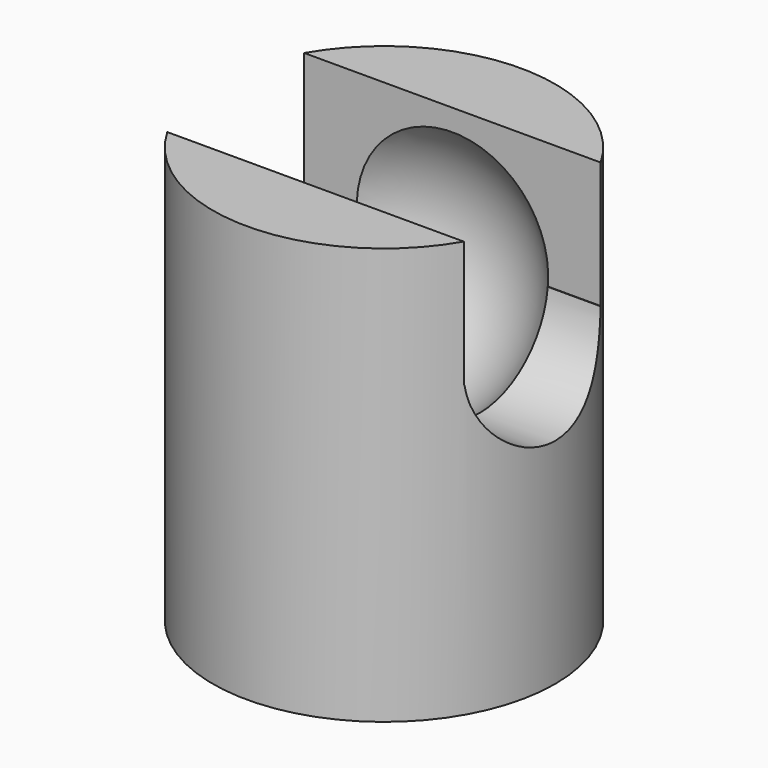
from build123d import *

# Parameters (mm, degrees)
F0_R     = 2
F1_DEPTH = 6
F2_R     = 1
F3_DEPTH = 12.5
F5_DEPTH = 12.5
F8_W     = 12.246756
F8_H     = 2.410266
F9_DEPTH = 12.5


with BuildPart() as f1:
    # F0 (on Top) → F1 (new body)
    with BuildSketch(Plane.XY):
        Circle(F0_R)
    extrude(amount=F1_DEPTH)

    # F2 (on Right) → F3 (cut, symmetric)
    with BuildSketch(Plane.YZ):
        with Locations((0, 3.5)):
            Circle(F2_R)
    extrude(amount=F3_DEPTH, both=True, mode=Mode.SUBTRACT)

    # F4 (on Right) → F5 (cut, symmetric)
    with BuildSketch(Plane.YZ):
        Polygon((-1, 3.392821), (1, 3.393114), (1, 8.364114), (-1, 8.364114), align=None)
    extrude(amount=F5_DEPTH, both=True, mode=Mode.SUBTRACT)

    # F6 (on Front) → F7 (revolve, cut)
    with BuildSketch(Plane.XZ):
        with BuildLine():
            Line((0, 2), (0, 5))
            ThreePointArc((0, 5), (-1.5, 3.5), (0, 2))
        make_face()
    revolve(axis=Axis((0, 0, 3.5), (0, 0, -1)), mode=Mode.SUBTRACT)

    # F8 (on Right) → F9 (cut, symmetric)
    with BuildSketch(Plane.YZ):
        with Locations((0.747654, 6.073989)):
            Rectangle(F8_W, F8_H)
    extrude(amount=F9_DEPTH, both=True, mode=Mode.SUBTRACT)


solid = f1.part
